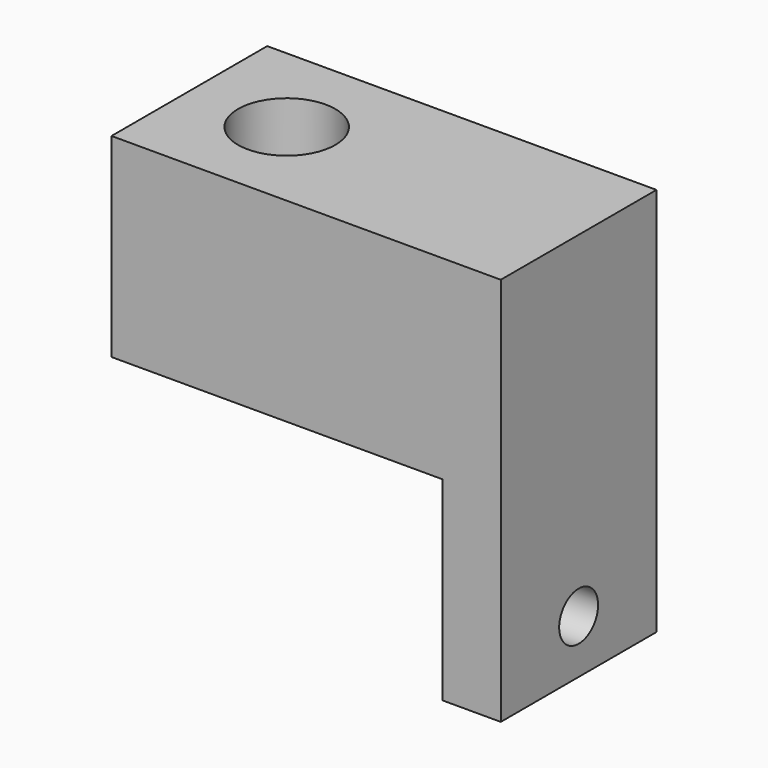
from build123d import *

# Parameters (mm, degrees)
F0_W     = 20
F0_H     = 10
F0_R     = 2.5
F1_DEPTH = 10
F2_W     = 3
F2_H     = 10
F3_DEPTH = 10
F4_R     = 1.25
F5_DEPTH = 3


with BuildPart() as f1:
    # F0 (on Top) → F1 (new body)
    with BuildSketch(Plane.XY):
        with Locations((10, -5)):
            Rectangle(F0_W, F0_H)
        with Locations((5, -5)):
            Circle(F0_R, mode=Mode.SUBTRACT)
    extrude(amount=F1_DEPTH)

    # F2 (on face) → F3 (join)
    with BuildSketch(Plane(origin=(0, 0, 0), x_dir=(1, 0, 0), z_dir=(0, 0, -1))):
        with Locations((18.5, 5)):
            Rectangle(F2_W, F2_H)
    extrude(amount=F3_DEPTH)

    # F4 (on face) → F5 (cut, through all)
    with BuildSketch(Plane.YZ.offset(20)):
        with Locations((-5, -7.25)):
            Circle(F4_R)
    extrude(amount=-F5_DEPTH, mode=Mode.SUBTRACT)


solid = f1.part
